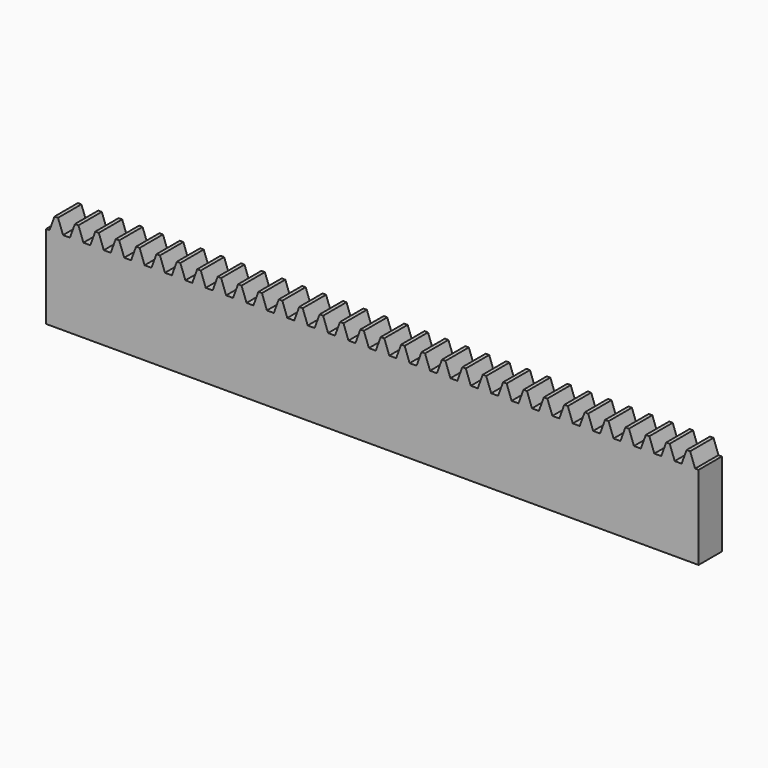
from build123d import *

# Parameters (mm, degrees)
F1_DEPTH = 4.5


with BuildPart() as f1:
    # F0 (on Front) → F1 (new body)
    with BuildSketch(Plane.XZ):
        Polygon((-494.6955, -7.5), (-394.1515, -7.5), (-394.1515, 5.4), (-394.685, 5.4), (-395.449337, 7.5), (-395.995663, 7.5), (-396.76, 5.4), (-397.827, 5.4), (-398.591337, 7.5), (-399.137663, 7.5), (-399.902, 5.4), (-400.969, 5.4), (-401.733337, 7.5), (-402.279663, 7.5), (-403.044, 5.4), (-404.111, 5.4), (-404.875337, 7.5), (-405.421663, 7.5), (-406.186, 5.4), (-407.253, 5.4), (-408.017337, 7.5), (-408.563663, 7.5), (-409.328, 5.4), (-410.395, 5.4), (-411.159337, 7.5), (-411.705663, 7.5), (-412.47, 5.4), (-413.537, 5.4), (-414.301337, 7.5), (-414.847663, 7.5), (-415.612, 5.4), (-416.679, 5.4), (-417.443337, 7.5), (-417.989663, 7.5), (-418.754, 5.4), (-419.821, 5.4), (-420.585337, 7.5), (-421.131663, 7.5), (-421.896, 5.4), (-422.963, 5.4), (-423.727337, 7.5), (-424.273663, 7.5), (-425.038, 5.4), (-426.105, 5.4), (-426.869337, 7.5), (-427.415663, 7.5), (-428.18, 5.4), (-429.247, 5.4), (-430.011337, 7.5), (-430.557663, 7.5), (-431.322, 5.4), (-432.389, 5.4), (-433.153337, 7.5), (-433.699663, 7.5), (-434.464, 5.4), (-435.531, 5.4), (-436.295337, 7.5), (-436.841663, 7.5), (-437.606, 5.4), (-438.673, 5.4), (-439.437337, 7.5), (-439.983663, 7.5), (-440.748, 5.4), (-441.815, 5.4), (-442.579337, 7.5), (-443.125663, 7.5), (-443.89, 5.4), (-444.957, 5.4), (-445.721337, 7.5), (-446.267663, 7.5), (-447.032, 5.4), (-448.099, 5.4), (-448.863337, 7.5), (-449.409663, 7.5), (-450.174, 5.4), (-451.241, 5.4), (-452.005337, 7.5), (-452.551663, 7.5), (-453.316, 5.4), (-454.383, 5.4), (-455.147337, 7.5), (-455.693663, 7.5), (-456.458, 5.4), (-457.525, 5.4), (-458.289337, 7.5), (-458.835663, 7.5), (-459.6, 5.4), (-460.667, 5.4), (-461.431337, 7.5), (-461.977663, 7.5), (-462.742, 5.4), (-463.809, 5.4), (-464.573337, 7.5), (-465.119663, 7.5), (-465.884, 5.4), (-466.951, 5.4), (-467.715337, 7.5), (-468.261663, 7.5), (-469.026, 5.4), (-470.093, 5.4), (-470.857337, 7.5), (-471.403663, 7.5), (-472.168, 5.4), (-473.235, 5.4), (-473.999337, 7.5), (-474.545663, 7.5), (-475.31, 5.4), (-476.377, 5.4), (-477.141337, 7.5), (-477.687663, 7.5), (-478.452, 5.4), (-479.519, 5.4), (-480.283337, 7.5), (-480.829663, 7.5), (-481.594, 5.4), (-482.661, 5.4), (-483.425337, 7.5), (-483.971663, 7.5), (-484.736, 5.4), (-485.803, 5.4), (-486.567337, 7.5), (-487.113663, 7.5), (-487.878, 5.4), (-488.945, 5.4), (-489.709337, 7.5), (-490.255663, 7.5), (-491.02, 5.4), (-492.087, 5.4), (-492.851337, 7.5), (-493.397663, 7.5), (-494.162, 5.4), (-494.6955, 5.4), align=None)
    extrude(amount=F1_DEPTH)


solid = f1.part
